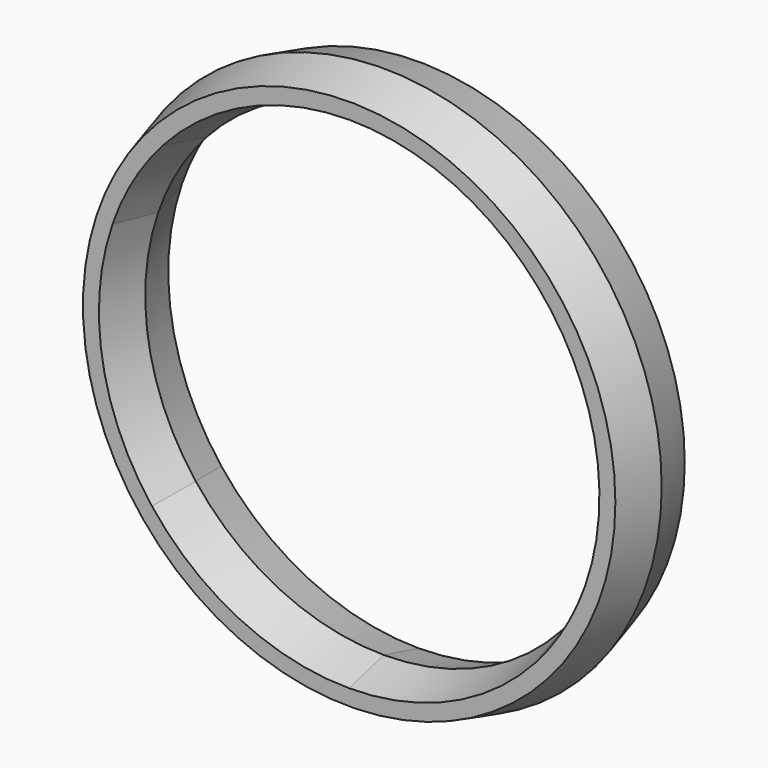
from build123d import *

# Parameters (mm, degrees)
F0_R     = 384.4222137889
F1_DEPTH = 60
F1_TAPER = 15


with BuildPart() as f1:
    # F0 (on Front) → F1 (new body, symmetric)
    with BuildSketch(Plane.XZ):
        Circle(F0_R)
        with BuildLine():
            ThreePointArc((-306.5168000492, -122.798580153), (-324.2251435162, -62.5307629242), (-330.2, 0))
            ThreePointArc((-330.2, 0), (-325.6867721675, 54.4074115828), (-312.2704637484, 107.3275242906))
            ThreePointArc((-312.2704637484, 107.3275242906), (-284.6368182454, 167.37359917), (-245.597160306, 220.7126522191))
            ThreePointArc((-245.597160306, 220.7126522191), (-189.128113572, 270.670642399), (-122.798580153, 306.5168000492))
            ThreePointArc((-122.798580153, 306.5168000492), (-62.5307629242, 324.2251435162), (0, 330.2))
            ThreePointArc((0, 330.2), (70.9592964928, 322.4853767867), (138.6028798667, 299.701988136))
            ThreePointArc((138.6028798667, 299.701988136), (205.1525193234, 258.7363210205), (260.2112729594, 203.2784627668))
            ThreePointArc((260.2112729594, 203.2784627668), (286.2069706705, 164.6742540278), (306.5168000492, 122.798580153))
            ThreePointArc((306.5168000492, 122.798580153), (324.2251435162, 62.5307629242), (330.2, 0))
            ThreePointArc((330.2, 0), (325.4397731908, -55.8658574223), (311.2963414565, -110.1209689195))
            ThreePointArc((311.2963414565, -110.1209689195), (283.8841721197, -168.6470184139), (245.597160306, -220.7126522191))
            ThreePointArc((245.597160306, -220.7126522191), (189.128113572, -270.670642399), (122.798580153, -306.5168000492))
            ThreePointArc((122.798580153, -306.5168000492), (62.5307629242, -324.2251435162), (0, -330.2))
            ThreePointArc((0, -330.2), (-78.1374463344, -320.8217253871), (-151.8364043025, -293.2196213225))
            ThreePointArc((-151.8364043025, -293.2196213225), (-210.8747853225, -254.0942048044), (-260.2112729594, -203.2784627668))
            ThreePointArc((-260.2112729594, -203.2784627668), (-286.2069706705, -164.6742540278), (-306.5168000492, -122.798580153))
        make_face(mode=Mode.SUBTRACT)
    extrude(amount=F1_DEPTH, both=True, taper=F1_TAPER)


solid = f1.part
